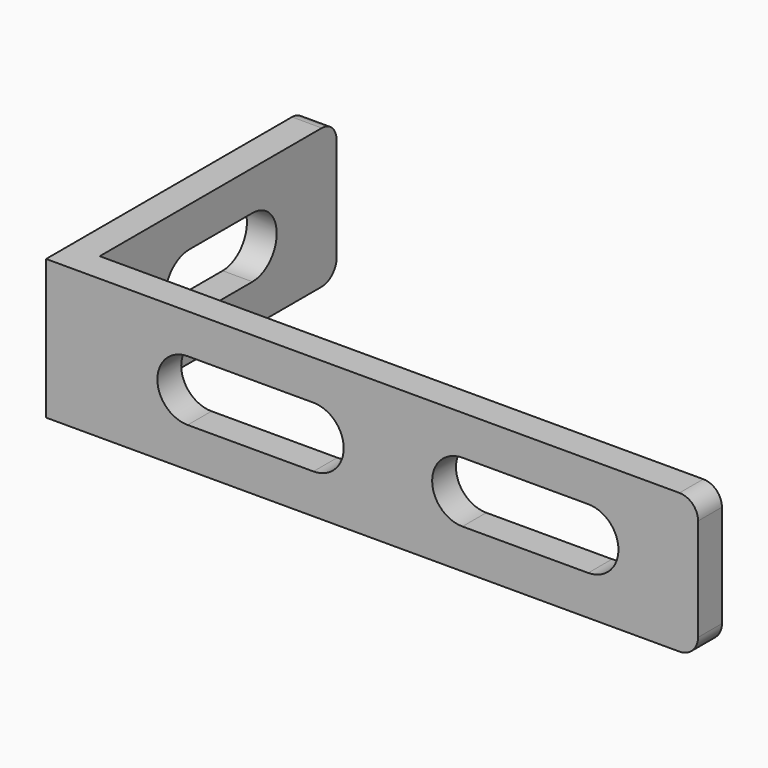
from build123d import *

# Parameters (mm, degrees)
F1_DEPTH = 15
F4_DEPTH = 3.201
F5_DEPTH = 3.201
F6_R     = 2


with BuildPart() as f1:
    # F0 (on Top) → F1 (new body)
    with BuildSketch(Plane.XY):
        Polygon((3.2, 35), (0, 35), (0, 0), (70, 0), (70, 3.2), (3.2, 3.2), align=None)
    extrude(amount=F1_DEPTH)

    # F2 (on face) → F4 (cut, through all)
    with BuildSketch(Plane(origin=(0, 3.2, 0), x_dir=(-1, 0, 0), z_dir=(0, 1, 0))):
        with BuildLine():
            Line((-15.2, 10.75), (-28.7, 10.75))
            ThreePointArc((-28.7, 10.75), (-31.95, 7.5), (-28.7, 4.25))
            Line((-28.7, 4.25), (-15.2, 4.25))
            ThreePointArc((-15.2, 4.25), (-11.95, 7.5), (-15.2, 10.75))
        make_face()
        with BuildLine():
            Line((-58.2, 4.25), (-44.7, 4.25))
            ThreePointArc((-44.7, 4.25), (-41.45, 7.5), (-44.7, 10.75))
            Line((-44.7, 10.75), (-58.2, 10.75))
            ThreePointArc((-58.2, 10.75), (-61.45, 7.5), (-58.2, 4.25))
        make_face()
    extrude(amount=-F4_DEPTH, mode=Mode.SUBTRACT)

    # F3 (on face) → F5 (cut, through all)
    with BuildSketch(Plane.YZ.offset(3.2)):
        with BuildLine():
            Line((23.7, 10.75), (15.2, 10.75))
            ThreePointArc((15.2, 10.75), (11.95, 7.5), (15.2, 4.25))
            Line((15.2, 4.25), (23.7, 4.25))
            ThreePointArc((23.7, 4.25), (26.95, 7.5), (23.7, 10.75))
        make_face()
    extrude(amount=-F5_DEPTH, mode=Mode.SUBTRACT)

    # F6
    f6_edges = [f1.edges().sort_by_distance(p)[0] for p in [
        (70, 1.6, 15),
        (70, 1.6, 0),
        (1.6, 35, 15),
        (1.6, 35, 0),
    ]]
    fillet(f6_edges, radius=F6_R)


solid = f1.part
